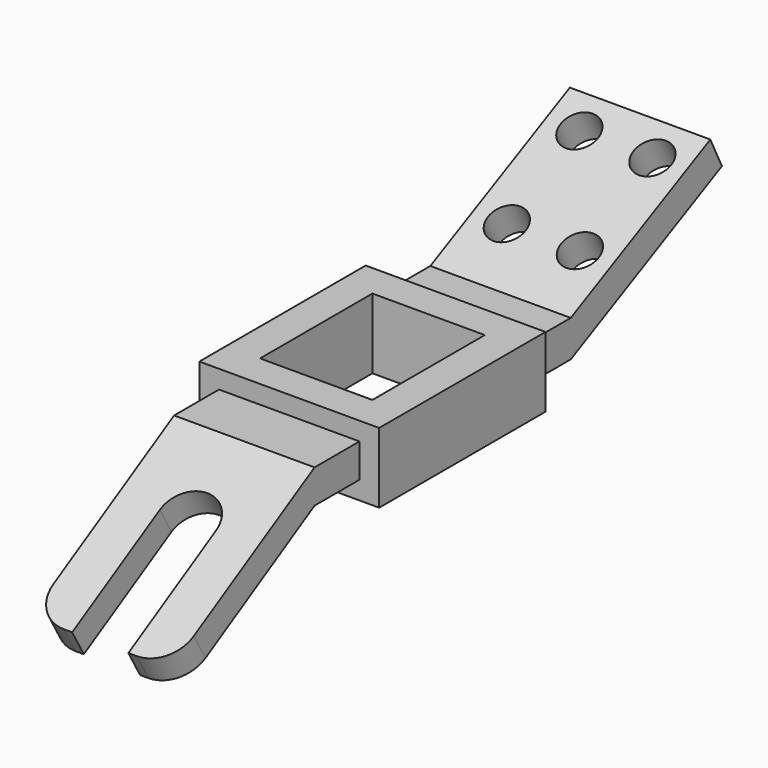
from build123d import *

# Parameters (mm, degrees)
F0_W          = 64
F0_H          = 74
F0_W_2        = 40
F0_H_2        = 50
F1_DEPTH      = 25
F3_DEPTH      = 25
F3_DEPTH_BACK = 25
F5_DEPTH      = 25
F6_R          = 12
F7_R          = 12
F9_DEPTH      = 25
F9_DEPTH_BACK = 25
F11_DEPTH     = 25


with BuildPart() as f1:
    # F0 (on Top) → F1 (new body)
    with BuildSketch(Plane.XY):
        Rectangle(F0_W, F0_H)
        Rectangle(F0_W_2, F0_H_2, mode=Mode.SUBTRACT)
    extrude(amount=F1_DEPTH)

    # F2 (on Right) → F3 (join, two sides)
    with BuildSketch(Plane.YZ) as f3_sk:
        Polygon((-37, 12.5), (-37, 18.5), (-57, 18.5), (-57, 6.5), (-37, 6.5), align=None)
        Polygon((-57, 6.5), (-57, 18.5), (-121.08587988, -18.5), (-115.8897274573, -27.5), align=None)
    extrude(amount=-F3_DEPTH)
    extrude(f3_sk.sketch, amount=F3_DEPTH_BACK)

    # F4 (on face) → F5 (cut)
    with BuildSketch(Plane(origin=(0, -22.260734985, 38.5567240079), x_dir=(1, 0, 0), z_dir=(0, -0.5, 0.8660254038))):
        with BuildLine():
            Line((0, -79.1134480157), (0, -114.1134480157))
            Line((0, -114.1134480157), (10, -114.1134480157))
            Line((10, -114.1134480157), (10, -69.1134480157))
            ThreePointArc((10, -69.1134480157), (7.0710678119, -76.1845158276), (0, -79.1134480157))
        make_face()
        with BuildLine():
            ThreePointArc((10, -69.1134480157), (0, -59.1134480157), (-10, -69.1134480157))
            ThreePointArc((-10, -69.1134480157), (-7.0710678119, -76.1845158276), (0, -79.1134480157))
            ThreePointArc((0, -79.1134480157), (7.0710678119, -76.1845158276), (10, -69.1134480157))
        make_face()
        with BuildLine():
            Line((-10, -69.1134480157), (-10, -114.1134480157))
            Line((-10, -114.1134480157), (0, -114.1134480157))
            Line((0, -114.1134480157), (0, -79.1134480157))
            ThreePointArc((0, -79.1134480157), (-7.0710678119, -76.1845158276), (-10, -69.1134480157))
        make_face()
    extrude(amount=-F5_DEPTH, mode=Mode.SUBTRACT)

    # F6
    f6_edges = [f1.edges().sort_by_distance(p)[0] for p in [
        (-25, -118.487804, -23),
    ]]
    fillet(f6_edges, radius=F6_R)

    # F7
    f7_edges = [f1.edges().sort_by_distance(p)[0] for p in [
        (25, -118.487804, -23),
    ]]
    fillet(f7_edges, radius=F7_R)

    # F8 (on Right) → F9 (join, two sides)
    with BuildSketch(Plane.YZ) as f9_sk:
        Polygon((57, 19), (37, 19), (37, 6), (57, 6), (124.2447130228, 39.2136804718), (119.0829748267, 49.6641815534), align=None)
    extrude(amount=F9_DEPTH)
    extrude(f9_sk.sketch, amount=-F9_DEPTH_BACK)

    # F10 (on face) → F11 (cut)
    with BuildSketch(Plane(origin=(0, 3.634493279, -7.3584274328), x_dir=(1, 0, 0), z_dir=(0, -0.442849073, 0.8965961736))):
        with BuildLine():
            ThreePointArc((19.7, 116.7630763351), (13, 123.4630763351), (6.3, 116.7630763351))
            Line((6.3, 116.7630763351), (19.7, 116.7630763351))
        make_face()
        with BuildLine():
            Line((19.7, 116.7630763351), (6.3, 116.7630763351))
            ThreePointArc((6.3, 116.7630763351), (13, 110.0630763351), (19.7, 116.7630763351))
        make_face()
        with BuildLine():
            ThreePointArc((-6.3, 116.7630763351), (-13, 123.4630763351), (-19.7, 116.7630763351))
            Line((-19.7, 116.7630763351), (-6.3, 116.7630763351))
        make_face()
        with BuildLine():
            Line((-6.3, 116.7630763351), (-19.7, 116.7630763351))
            ThreePointArc((-19.7, 116.7630763351), (-13, 110.0630763351), (-6.3, 116.7630763351))
        make_face()
        with BuildLine():
            ThreePointArc((19.7, 80.7630763351), (13, 87.4630763351), (6.3, 80.7630763351))
            Line((6.3, 80.7630763351), (19.7, 80.7630763351))
        make_face()
        with BuildLine():
            Line((19.7, 80.7630763351), (6.3, 80.7630763351))
            ThreePointArc((6.3, 80.7630763351), (13, 74.0630763351), (19.7, 80.7630763351))
        make_face()
        with BuildLine():
            ThreePointArc((-6.3, 80.7630763351), (-13, 87.4630763351), (-19.7, 80.7630763351))
            Line((-19.7, 80.7630763351), (-6.3, 80.7630763351))
        make_face()
        with BuildLine():
            Line((-6.3, 80.7630763351), (-19.7, 80.7630763351))
            ThreePointArc((-19.7, 80.7630763351), (-13, 74.0630763351), (-6.3, 80.7630763351))
        make_face()
    extrude(amount=-F11_DEPTH, mode=Mode.SUBTRACT)


solid = f1.part
